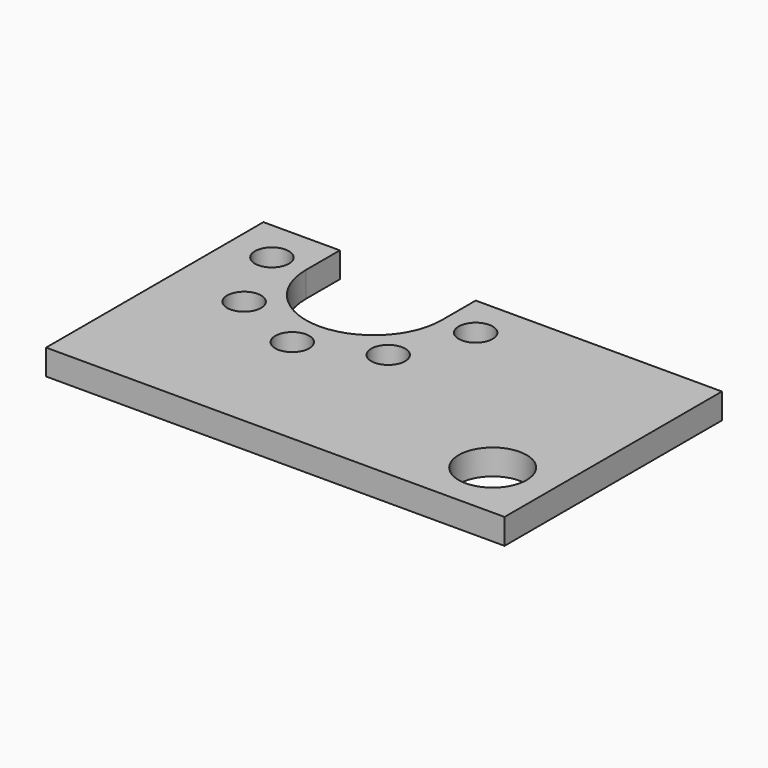
from build123d import *

# Parameters (mm, degrees)
F0_R     = 1
F0_R_2   = 2
F1_DEPTH = 1.5


with BuildPart() as f1:
    # F0 (on Top) → F1 (new body)
    with BuildSketch(Plane.XY):
        with BuildLine():
            ThreePointArc((4, 0), (0, -4), (-4, 0))
            Line((-4, 0), (-4, 2.5))
            Line((-4, 2.5), (-8.5, 2.5))
            Line((-8.5, 2.5), (-8.5, -13.5))
            Line((-8.5, -13.5), (18.5, -13.5))
            Line((18.5, -13.5), (18.5, 2.5))
            Line((18.5, 2.5), (4, 2.5))
            Line((4, 2.5), (4, 0))
        make_face()
        with Locations((0, -6)):
            Circle(F0_R, mode=Mode.SUBTRACT)
        with Locations((15, -10)):
            Circle(F0_R_2, mode=Mode.SUBTRACT)
        with Locations((-4.242641, -4.242641)):
            Circle(F0_R, mode=Mode.SUBTRACT)
        with Locations((4.242641, -4.242641)):
            Circle(F0_R, mode=Mode.SUBTRACT)
        with Locations((-6, 0)):
            Circle(F0_R, mode=Mode.SUBTRACT)
        with Locations((6, 0)):
            Circle(F0_R, mode=Mode.SUBTRACT)
    extrude(amount=F1_DEPTH)


solid = f1.part
